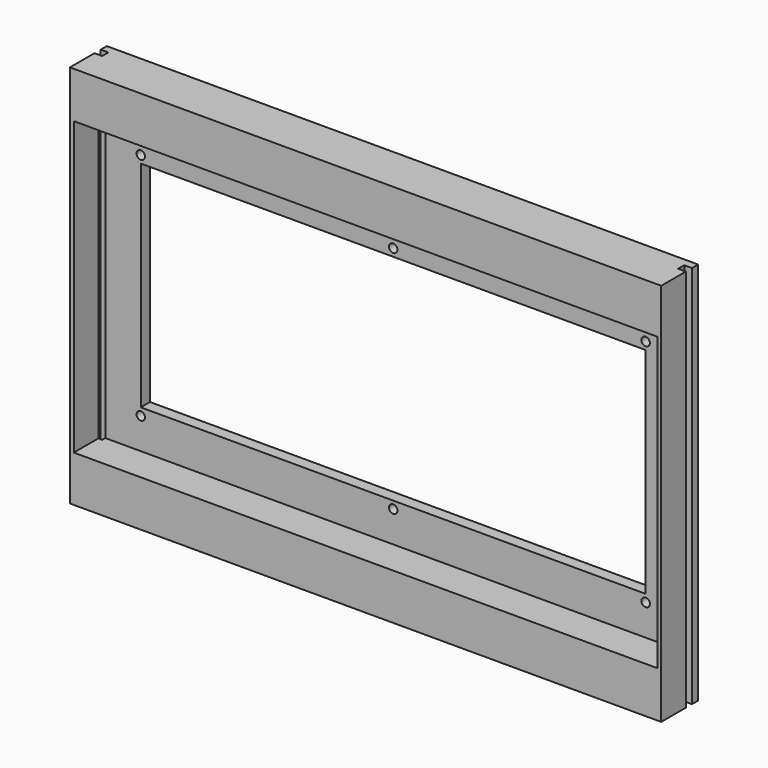
from build123d import *

# Parameters (mm, degrees)
F0_W      = 195.58
F0_H      = 127
F1_DEPTH  = 15.24
F2_W      = 2.54
F2_H      = 2.54
F3_DEPTH  = 127
F4_W      = 167.005
F4_H      = 70.993
F5_DEPTH  = 15.24
F6_W      = 172.085
F6_H      = 79.629
F7_DEPTH  = 11.43
F8_R      = 1.395268
F8_R_2    = 1.40268
F8_R_3    = 1.396073
F8_R_4    = 1.400056
F8_R_5    = 1.400396
F8_R_6    = 1.399702
F9_DEPTH  = 3.81
F10_W     = 193.04
F10_H     = 96.52
F11_DEPTH = 11.43


with BuildPart() as f1:
    # F0 (on Front) → F1 (new body)
    with BuildSketch(Plane.XZ):
        Rectangle(F0_W, F0_H)
    extrude(amount=F1_DEPTH)

    # F2 (on face) → F3 (cut)
    with BuildSketch(Plane.XY.offset(63.5)):
        with Locations((-96.52, -3.81)):
            Rectangle(F2_W, F2_H)
        with Locations((96.52, -3.81)):
            Rectangle(F2_W, F2_H)
    extrude(amount=-F3_DEPTH, mode=Mode.SUBTRACT)

    # F4 (on face) → F5 (cut)
    with BuildSketch(Plane.XZ.offset(15.24)):
        Rectangle(F4_W, F4_H)
    extrude(amount=-F5_DEPTH, mode=Mode.SUBTRACT)

    # F6 (on face) → F7 (cut)
    with BuildSketch(Plane.XZ.offset(15.24)):
        Rectangle(F6_W, F6_H)
    extrude(amount=-F7_DEPTH, mode=Mode.SUBTRACT)

    # F8 (on face) → F9 (cut)
    with BuildSketch(Plane.XZ.offset(3.81)):
        with Locations((0, 37.9857)):
            Circle(F8_R)
        with Locations((-83.5025, 37.9857)):
            Circle(F8_R_2)
        with Locations((-83.5025, -37.9857)):
            Circle(F8_R_3)
        with Locations((0, -37.9857)):
            Circle(F8_R_4)
        with Locations((83.5025, -37.9857)):
            Circle(F8_R_5)
        with Locations((83.5025, 37.9857)):
            Circle(F8_R_6)
    extrude(amount=-F9_DEPTH, mode=Mode.SUBTRACT)

    # F10 (on face) → F11 (cut)
    with BuildSketch(Plane.XZ.offset(15.24)):
        Rectangle(F10_W, F10_H)
    extrude(amount=-F11_DEPTH, mode=Mode.SUBTRACT)


solid = f1.part
